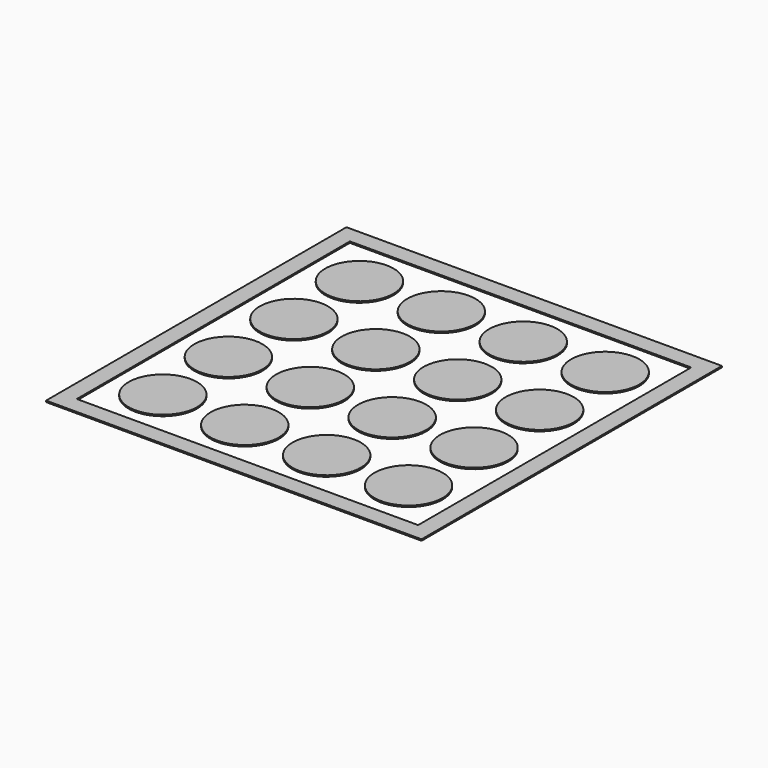
from build123d import *

# Parameters (mm, degrees)
F0_W     = 550
F0_H     = 550
F0_W_2   = 500
F0_H_2   = 500
F0_R     = 50
F1_DEPTH = 2


with BuildPart() as f1:
    # F0 (on Top) → F1 (new body)
    with BuildSketch(Plane.XY):
        Rectangle(F0_W, F0_H)
        Rectangle(F0_W_2, F0_H_2, mode=Mode.SUBTRACT)
        with Locations((-180, 180)):
            Circle(F0_R)
        with Locations((-60, 180)):
            Circle(F0_R)
        with Locations((60, 180)):
            Circle(F0_R)
        with Locations((180, 180)):
            Circle(F0_R)
        with Locations((180, 60)):
            Circle(F0_R)
        with Locations((60, 60)):
            Circle(F0_R)
        with Locations((-60, 60)):
            Circle(F0_R)
        with Locations((-180, 60)):
            Circle(F0_R)
        with Locations((-180, -60)):
            Circle(F0_R)
        with Locations((-60, -60)):
            Circle(F0_R)
        with Locations((60, -60)):
            Circle(F0_R)
        with Locations((180, -60)):
            Circle(F0_R)
        with Locations((180, -180)):
            Circle(F0_R)
        with Locations((60, -180)):
            Circle(F0_R)
        with Locations((-60, -180)):
            Circle(F0_R)
        with Locations((-180, -180)):
            Circle(F0_R)
    extrude(amount=F1_DEPTH)


solid = f1.part
